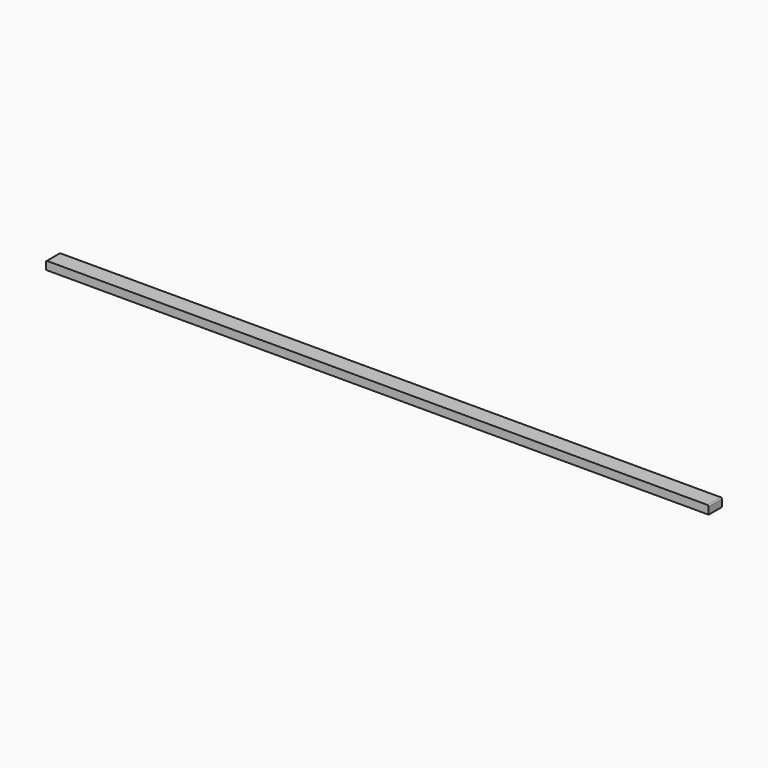
from build123d import *

# Parameters (mm, degrees)
F0_W     = 3048
F0_H     = 38.1
F1_DEPTH = 38.1
F2_R     = 5.08


with BuildPart() as f1:
    # F0 (on Front) → F1 (new body, symmetric)
    with BuildSketch(Plane.XZ):
        Rectangle(F0_W, F0_H)
    extrude(amount=F1_DEPTH, both=True)

    # F2
    f2_edges = [f1.edges().sort_by_distance(p)[0] for p in [
        (-1524, 0, 19.05),
        (1524, 0, 19.05),
    ]]
    fillet(f2_edges, radius=F2_R)


solid = f1.part
